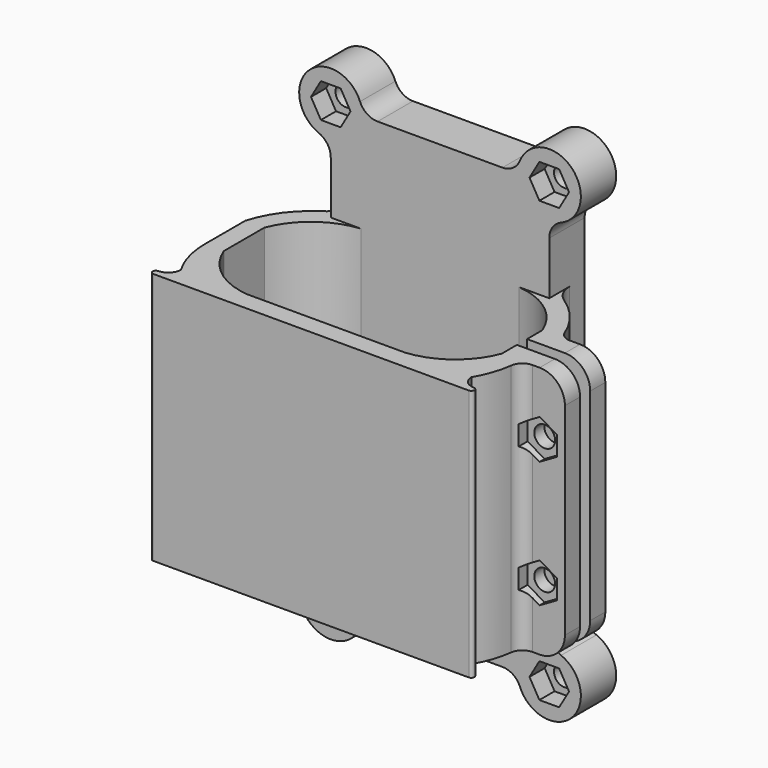
from build123d import *

# Parameters (mm, degrees)
PAD_DEPTH            = 40
PAD001_DEPTH         = 4
PAD001_DEPTH_BACK    = 3
FILLET_R             = 2
FILLET001_R          = 4
FILLET002_R          = 4
SKETCH_R             = 1.65
HOLE_DEPTH           = 32.501
SKETCH003_R          = 1.65
HOLE001_DEPTH        = 18.251
POCKET_DEPTH         = 1
POCKET_DEPTH_BACK    = 2
SKETCH005_R          = 2.8
POCKET001_DEPTH      = 1
POCKET001_DEPTH_BACK = 2
POCKET002_DEPTH      = 3


with BuildPart() as part:
    # Sketch001 → Pad (new body)
    with BuildSketch(Plane(origin=(0, 0, -5), x_dir=(1, 0, 0), z_dir=(0, 0, -1))):
        with BuildLine():
            ThreePointArc((12.5, -11.25), (18.286744, -8.983492), (22, -4))
            Line((22, -1), (22, -4))
            Line((32, -1), (22, -1))
            Line((32, -4), (32, -1))
            Line((32, -4), (25, -4))
            ThreePointArc((12.5, -14.25), (20.336868, -11.060205), (25, -4))
            Line((-12.5, -14.25), (12.5, -14.25))
            ThreePointArc((-25, -4), (-20.336868, -11.060205), (-12.5, -14.25))
            Line((-25, -4), (-25, 4))
            ThreePointArc((-23, 11.25), (-24.490833, 7.760402), (-25, 4))
            ThreePointArc((-23, 11.25), (-23.58374, 12.662164), (-24.994208, 13.249992))
            ThreePointArc((-25, 14.25), (-25.468866, 13.747264), (-24.994208, 13.249992))
            Line((-12.5, 14.25), (-25, 14.25))
            Line((12.5, 14.25), (-12.5, 14.25))
            Line((12.5, 14.25), (25, 14.25))
            ThreePointArc((24.994208, 13.249992), (25.468866, 13.747264), (25, 14.25))
            ThreePointArc((24.994208, 13.249992), (23.58374, 12.662164), (23, 11.25))
            ThreePointArc((25, 4), (24.490833, 7.760402), (23, 11.25))
            Line((32, 4), (25, 4))
            Line((32, 4), (32, 1))
            Line((32, 1), (22, 1))
            Line((22, 1), (22, 4))
            ThreePointArc((22, 4), (18.286744, 8.983492), (12.5, 11.25))
            Line((-12.5, 11.25), (12.5, 11.25))
            ThreePointArc((-12.5, 11.25), (-18.286744, 8.983492), (-22, 4))
            Line((-22, -4), (-22, 4))
            ThreePointArc((-22, -4), (-18.286744, -8.983492), (-12.5, -11.25))
            Line((-12.5, -11.25), (12.5, -11.25))
        make_face()
    extrude(amount=PAD_DEPTH)

    # Sketch002 (on Face3 of Pad) → Pad001 (join, two sides)
    with BuildSketch(Plane(origin=(0.023182, 14.25, -24), x_dir=(0, 0, 1), z_dir=(0, 1, 0))) as pad001_sk:
        with BuildLine():
            ThreePointArc((36.675, 12.664876), (38.335534, 20.835534), (30.164876, 19.175))
            ThreePointArc((27.383802, 17.3), (29.060852, 17.812531), (30.164876, 19.175))
            Line((-27.383801, 17.3), (27.383802, 17.3))
            ThreePointArc((-30.164876, 19.175), (-29.060852, 17.812531), (-27.383801, 17.3))
            ThreePointArc((-30.164876, 19.175), (-38.335534, 20.835534), (-36.675, 12.664876))
            ThreePointArc((-34.8, 9.883801), (-35.312531, 11.560852), (-36.675, 12.664876))
            Line((-34.8, -9.883801), (-34.8, 9.883801))
            ThreePointArc((-36.675, -12.664876), (-35.312531, -11.560852), (-34.8, -9.883801))
            ThreePointArc((-36.675, -12.664876), (-38.335534, -20.835534), (-30.164876, -19.175))
            ThreePointArc((-27.383801, -17.3), (-29.060852, -17.812531), (-30.164876, -19.175))
            Line((27.383801, -17.3), (-27.383801, -17.3))
            ThreePointArc((30.164876, -19.175), (29.060852, -17.812531), (27.383801, -17.3))
            ThreePointArc((30.164876, -19.175), (38.335534, -20.835534), (36.675, -12.664876))
            ThreePointArc((34.8, -9.883802), (35.312531, -11.560852), (36.675, -12.664876))
            Line((34.8, 9.883801), (34.8, -9.883802))
            ThreePointArc((36.675, 12.664876), (35.312531, 11.560852), (34.8, 9.883801))
        make_face()
    extrude(amount=PAD001_DEPTH)
    extrude(pad001_sk.sketch, amount=-PAD001_DEPTH_BACK)

    # Fillet
    fillet_edges = [part.edges().sort_by_distance(p)[0] for p in [
        (25, 4, -25),
        (25, -4, -25),
    ]]
    fillet(fillet_edges, radius=FILLET_R)

    # Fillet001
    fillet001_edges = [part.edges().sort_by_distance(p)[0] for p in [
        (32, -2.5, -45),
        (32, 2.5, -45),
        (32, 2.5, -5),
        (32, -2.5, -5),
    ]]
    fillet(fillet001_edges, radius=FILLET001_R)

    # Fillet002
    fillet002_edges = [part.edges().sort_by_distance(p)[0] for p in [
        (17.323182, 12.95802, -25),
        (-17.276818, 12.979586, -25),
    ]]
    fillet(fillet002_edges, radius=FILLET002_R)

    # Sketch (on Face29 of Pad001) → Hole (cut, through all)
    with BuildSketch(Plane(origin=(0, 18.25, -5), x_dir=(1, 0, 0), z_dir=(0, 1, 0))):
        with Locations((17.323182, -15.8)):
            Circle(SKETCH_R)
        with Locations((-17.276818, -15.8)):
            Circle(SKETCH_R)
        with Locations((17.323182, 53.8)):
            Circle(SKETCH_R)
        with Locations((-17.276818, 53.8)):
            Circle(SKETCH_R)
    extrude(amount=-HOLE_DEPTH, mode=Mode.SUBTRACT)

    # Sketch003 (on Face56 of Hole) → Hole001 (cut, through all)
    with BuildSketch(Plane(origin=(0, 4, -5), x_dir=(1, 0, 0), z_dir=(0, 1, 0))):
        with Locations((28, 30)):
            Circle(SKETCH003_R)
        with Locations((28, 10)):
            Circle(SKETCH003_R)
    extrude(amount=-HOLE001_DEPTH, mode=Mode.SUBTRACT)

    # Sketch004 (on Face25 of Hole001) → Pocket (cut, two sides)
    with BuildSketch(Plane(origin=(0, -4, -5), x_dir=(-1, 0, 0), z_dir=(0, -1, 0))) as pocket_sk:
        Polygon((-30.71066, 31.565), (-30.71066, 28.435), (-28, 26.87), (-25.28934, 28.435), (-25.28934, 31.565), (-28, 33.13), align=None)
        Polygon((-28, 13.13), (-30.71066, 11.565), (-30.71066, 8.435), (-28, 6.87), (-25.28934, 8.435), (-25.28934, 11.565), align=None)
    extrude(amount=-POCKET_DEPTH, mode=Mode.SUBTRACT)
    extrude(pocket_sk.sketch, amount=POCKET_DEPTH_BACK, mode=Mode.SUBTRACT)

    # Sketch005 (on Face66 of Pocket) → Pocket001 (cut, two sides)
    with BuildSketch(Plane(origin=(0, 4, -5), x_dir=(1, 0, 0), z_dir=(0, 1, 0))) as pocket001_sk:
        with Locations((28, 30)):
            Circle(SKETCH005_R)
        with Locations((28, 10)):
            Circle(SKETCH005_R)
    extrude(amount=-POCKET001_DEPTH, mode=Mode.SUBTRACT)
    extrude(pocket001_sk.sketch, amount=POCKET001_DEPTH_BACK, mode=Mode.SUBTRACT)

    # Sketch006 (on Face8 of Pocket001) → Pocket002 (cut)
    with BuildSketch(Plane(origin=(0, 11.25, -5), x_dir=(-1, 0, 0), z_dir=(0, -1, 0))):
        Polygon((20.406818, -15.8), (18.841818, -13.08934), (15.711818, -13.08934), (14.146818, -15.8), (15.711818, -18.51066), (18.841818, -18.51066), align=None)
        Polygon((-14.193182, -15.8), (-15.758182, -13.08934), (-18.888182, -13.08934), (-20.453182, -15.8), (-18.888182, -18.51066), (-15.758182, -18.51066), align=None)
        Polygon((20.406818, 53.8), (18.841818, 56.51066), (15.711818, 56.51066), (14.146818, 53.8), (15.711818, 51.08934), (18.841818, 51.08934), align=None)
        Polygon((-14.193182, 53.8), (-15.758182, 56.51066), (-18.888182, 56.51066), (-20.453182, 53.8), (-18.888182, 51.08934), (-15.758182, 51.08934), align=None)
    extrude(amount=-POCKET002_DEPTH, mode=Mode.SUBTRACT)


solid = part.part
